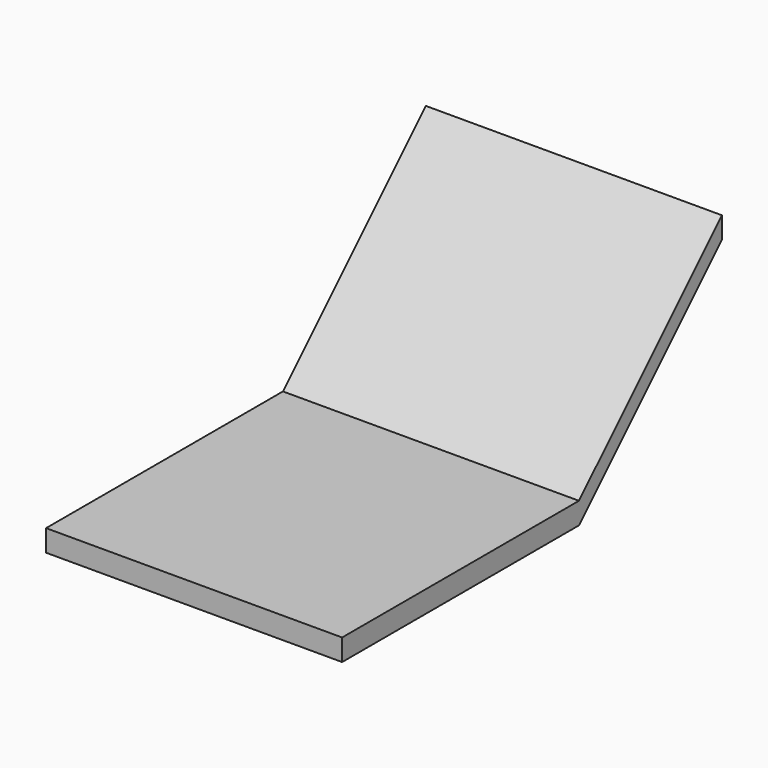
from build123d import *

# Parameters (mm, degrees)
F0_W     = 41
F0_H     = 41
F0_W_2   = 31
F0_H_2   = 31
F1_DEPTH = 3
F2_DEPTH = 41


with BuildPart() as f1:
    # F0 (on Top) → F1 (new body)
    with BuildSketch(Plane.XY):
        Rectangle(F0_W, F0_H)
        Rectangle(F0_W_2, F0_H_2, mode=Mode.SUBTRACT)
        Rectangle(F0_W_2, F0_H_2)
    extrude(amount=F1_DEPTH)

    # F3 (on face) → F2 (join)
    with BuildSketch(Plane.YZ.offset(20.5)):
        Polygon((20.5, 3), (20.5, 0), (45.248737, 24.748737), (45.248737, 27.748737), align=None)
    extrude(amount=-F2_DEPTH)


solid = f1.part
